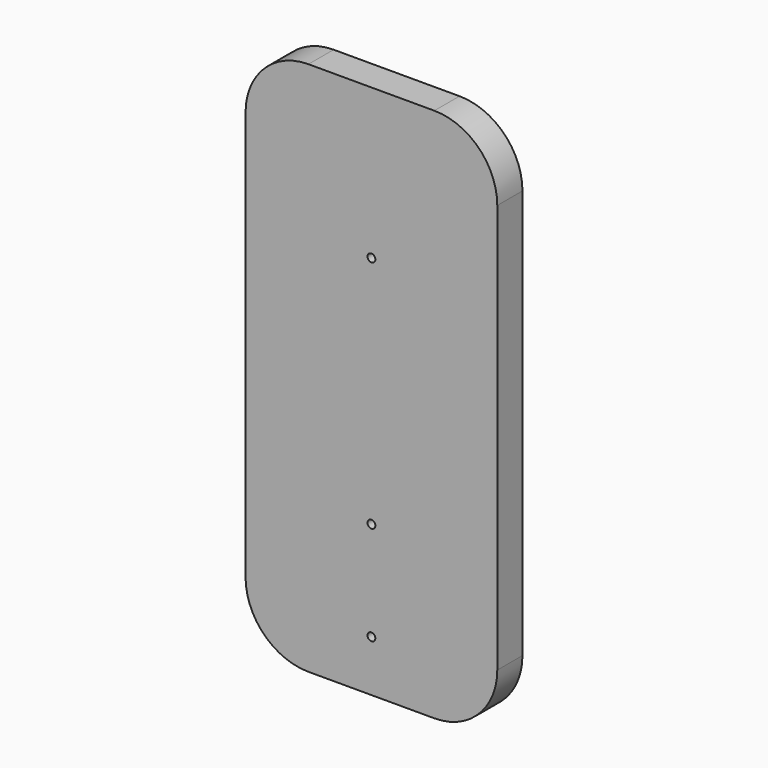
from build123d import *

# Parameters (mm, degrees)
F0_W     = 101.6
F0_H     = 215.9
F0_R     = 1.5875
F1_DEPTH = 12.7
F2_R     = 25.4
F3_R     = 25.4
F4_R     = 25.4
F5_R     = 25.4


with BuildPart() as f1:
    # F0 (on Front) → F1 (new body)
    with BuildSketch(Plane.XZ):
        with Locations((-90.611439, -64.121174)):
            Rectangle(F0_W, F0_H)
        with Locations((-90.611439, -111.363955)):
            Circle(F0_R, mode=Mode.SUBTRACT)
        with Locations((-90.611439, -151.368955)):
            Circle(F0_R, mode=Mode.SUBTRACT)
        with Locations((-90.611439, -16.748955)):
            Circle(F0_R, mode=Mode.SUBTRACT)
    extrude(amount=F1_DEPTH)

    # F2
    f2_edges = [f1.edges().sort_by_distance(p)[0] for p in [
        (-141.411439, -6.35, 43.828826),
    ]]
    fillet(f2_edges, radius=F2_R)

    # F3
    f3_edges = [f1.edges().sort_by_distance(p)[0] for p in [
        (-39.811439, -6.35, 43.828826),
    ]]
    fillet(f3_edges, radius=F3_R)

    # F4
    f4_edges = [f1.edges().sort_by_distance(p)[0] for p in [
        (-141.411439, -6.35, -172.071174),
    ]]
    fillet(f4_edges, radius=F4_R)

    # F5
    f5_edges = [f1.edges().sort_by_distance(p)[0] for p in [
        (-39.811439, -6.35, -172.071174),
    ]]
    fillet(f5_edges, radius=F5_R)


solid = f1.part
